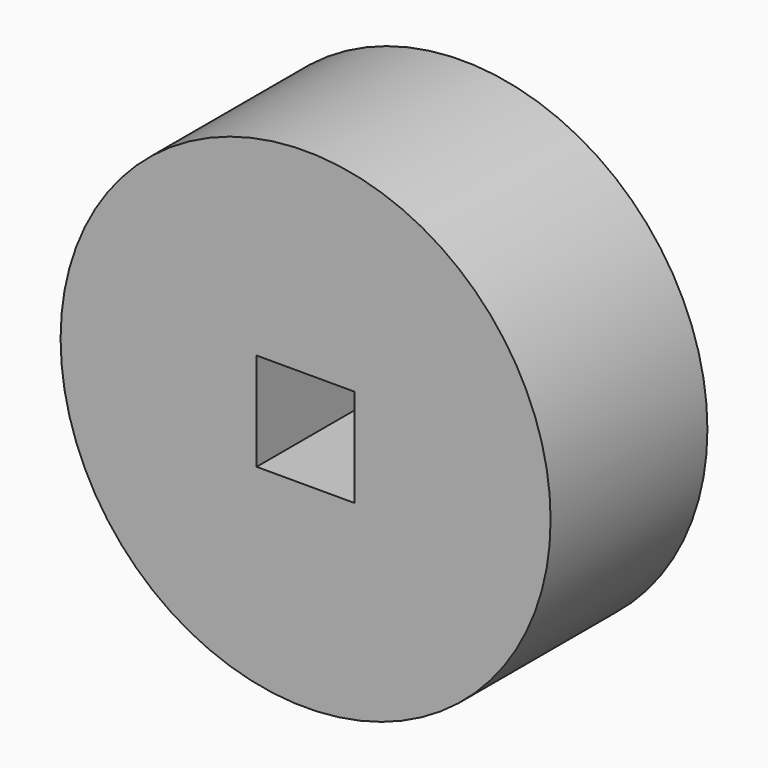
from build123d import *

# Parameters (mm, degrees)
F0_R     = 63.5
F1_DEPTH = 25.4
F2_W     = 25.4
F2_H     = 25.4
F3_DEPTH = 50.801


with BuildPart() as f1:
    # F0 (on Front) → F1 (new body, symmetric)
    with BuildSketch(Plane.XZ):
        Circle(F0_R)
        Circle(F0_R)
    extrude(amount=F1_DEPTH, both=True)

    # F2 (on face) → F3 (cut, through all)
    with BuildSketch(Plane.XZ.offset(25.4)):
        Rectangle(F2_W, F2_H)
    extrude(amount=-F3_DEPTH, mode=Mode.SUBTRACT)


solid = f1.part
